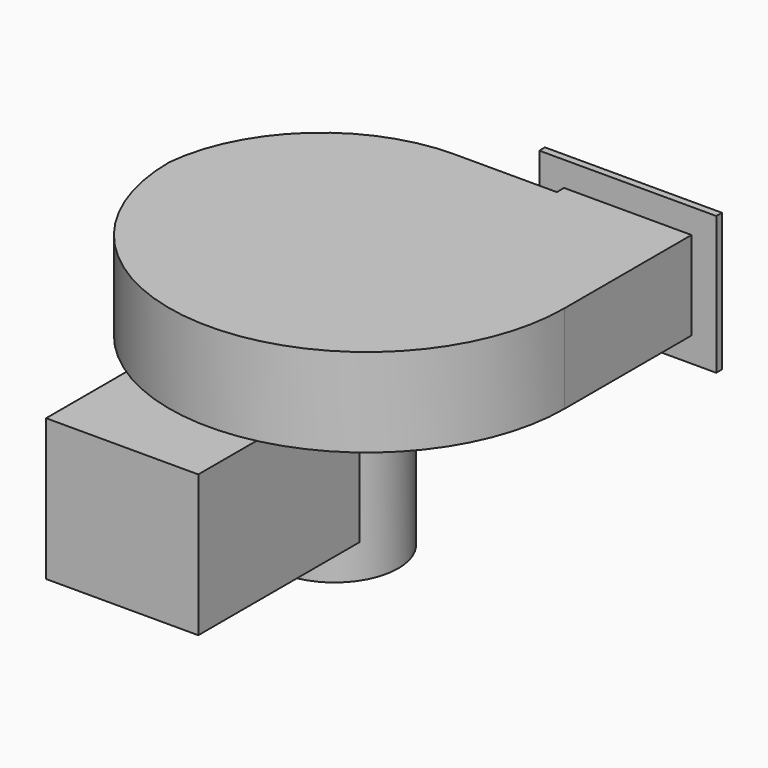
from build123d import *

# Parameters (mm, degrees)
F0_R     = 192.4855097927
F0_R_2   = 133.4691970043
F0_R_3   = 78.4792359607
F0_R_4   = 44.9880642018
F1_DEPTH = 125
F2_W     = 250
F2_H     = 195
F2_W_2   = 180
F2_H_2   = 125
F3_DEPTH = 10
F4_R     = 90
F5_DEPTH = 275
F6_W     = 215
F6_H     = 285
F7_DEPTH = 200


with BuildPart() as f1:
    # F0 (on Top) → F1 (new body)
    with BuildSketch(Plane.XY):
        with BuildLine():
            ThreePointArc((-233.4027856588, 0), (45.7986071706, -279.2013928294), (325, 0))
            Line((325, 0), (325, 223.9410325965))
            Line((325, 223.9410325965), (145, 223.9410325965))
            Line((145, 223.9410325965), (145, 211.1732696451))
            Line((145, 211.1732696451), (0, 211.1732696451))
            ThreePointArc((0, 211.1732696451), (-157.3777383923, 150.5448455883), (-233.4027856588, 0))
        make_face()
        Circle(F0_R, mode=Mode.SUBTRACT)
        Circle(F0_R)
        Circle(F0_R_2, mode=Mode.SUBTRACT)
        Circle(F0_R_2)
        Circle(F0_R_3, mode=Mode.SUBTRACT)
        Circle(F0_R_3)
        Circle(F0_R_4, mode=Mode.SUBTRACT)
        Circle(F0_R_4)
    extrude(amount=F1_DEPTH)

    # F4 (on face) → F5 (join)
    with BuildSketch(Plane(origin=(0, 0, 0), x_dir=(1, 0, 0), z_dir=(0, 0, -1))):
        Circle(F4_R)
    extrude(amount=F5_DEPTH)


with BuildPart() as f3:
    # F2 (on face) → F3 (new body)
    with BuildSketch(Plane(origin=(0, 223.9410325965, 0), x_dir=(-1, 0, 0), z_dir=(0, 1, 0))):
        with Locations((-235, 62.5)):
            Rectangle(F2_W, F2_H)
        with Locations((-235, 62.5)):
            Rectangle(F2_W_2, F2_H_2, mode=Mode.SUBTRACT)
    extrude(amount=F3_DEPTH)


with BuildPart() as f7:
    # F6 (on face) → F7 (new body)
    with BuildSketch(Plane(origin=(0, 0, 0), x_dir=(1, 0, 0), z_dir=(0, 0, -1))):
        with Locations((0, 232.5)):
            Rectangle(F6_W, F6_H)
    extrude(amount=F7_DEPTH)


solid = Compound([f1.part, f3.part, f7.part])
